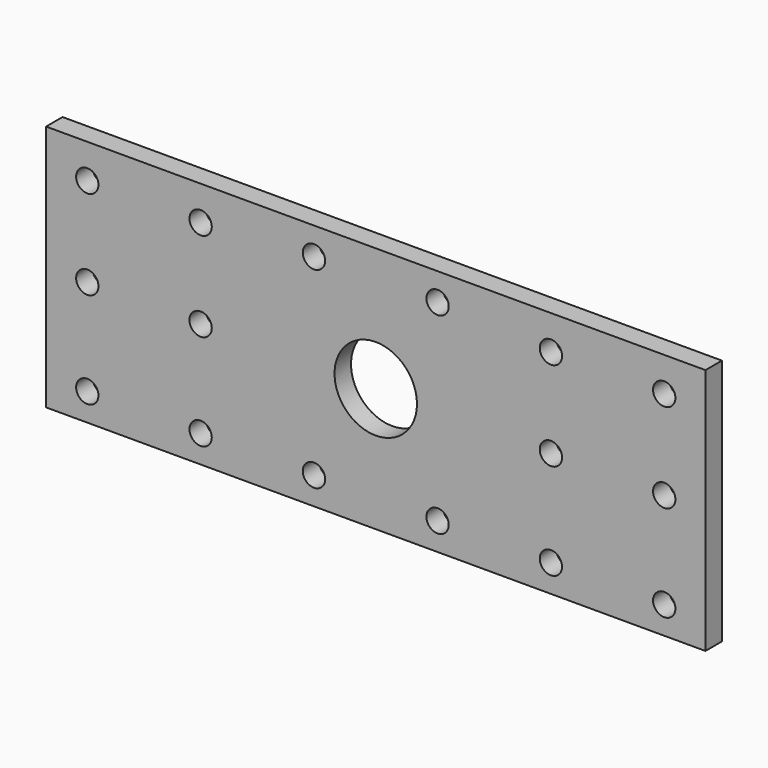
from build123d import *

# Parameters (mm, degrees)
F0_W     = 609.6
F0_H     = 228.6
F0_R     = 10.31875
F0_R_2   = 57.15
F0_R_3   = 38.1
F1_DEPTH = 19.05


with BuildPart() as f1:
    # F0 (on Front) → F1 (new body)
    with BuildSketch(Plane.XZ):
        with Locations((0, 38.1)):
            Rectangle(F0_W, F0_H)
        with Locations((-266.7, -50.8)):
            Circle(F0_R, mode=Mode.SUBTRACT)
        with Locations((-161.925, -50.8)):
            Circle(F0_R, mode=Mode.SUBTRACT)
        with Locations((-57.15, -50.8)):
            Circle(F0_R, mode=Mode.SUBTRACT)
        with Locations((57.15, -50.8)):
            Circle(F0_R, mode=Mode.SUBTRACT)
        with Locations((161.925, -50.8)):
            Circle(F0_R, mode=Mode.SUBTRACT)
        with Locations((266.7, -50.8)):
            Circle(F0_R, mode=Mode.SUBTRACT)
        with Locations((-266.7, 38.1)):
            Circle(F0_R, mode=Mode.SUBTRACT)
        with Locations((-161.925, 38.1)):
            Circle(F0_R, mode=Mode.SUBTRACT)
        with Locations((-266.7, 120.65)):
            Circle(F0_R, mode=Mode.SUBTRACT)
        with Locations((-161.925, 120.65)):
            Circle(F0_R, mode=Mode.SUBTRACT)
        with Locations((-57.15, 127)):
            Circle(F0_R, mode=Mode.SUBTRACT)
        with Locations((0, 38.1)):
            Circle(F0_R_2, mode=Mode.SUBTRACT)
        with Locations((161.925, 38.1)):
            Circle(F0_R, mode=Mode.SUBTRACT)
        with Locations((266.7, 38.1)):
            Circle(F0_R, mode=Mode.SUBTRACT)
        with Locations((57.15, 127)):
            Circle(F0_R, mode=Mode.SUBTRACT)
        with Locations((161.925, 120.65)):
            Circle(F0_R, mode=Mode.SUBTRACT)
        with Locations((266.7, 120.65)):
            Circle(F0_R, mode=Mode.SUBTRACT)
        with Locations((0, 38.1)):
            Circle(F0_R_2)
        with Locations((0, 38.1)):
            Circle(F0_R_3, mode=Mode.SUBTRACT)
    extrude(amount=-F1_DEPTH)


solid = f1.part
